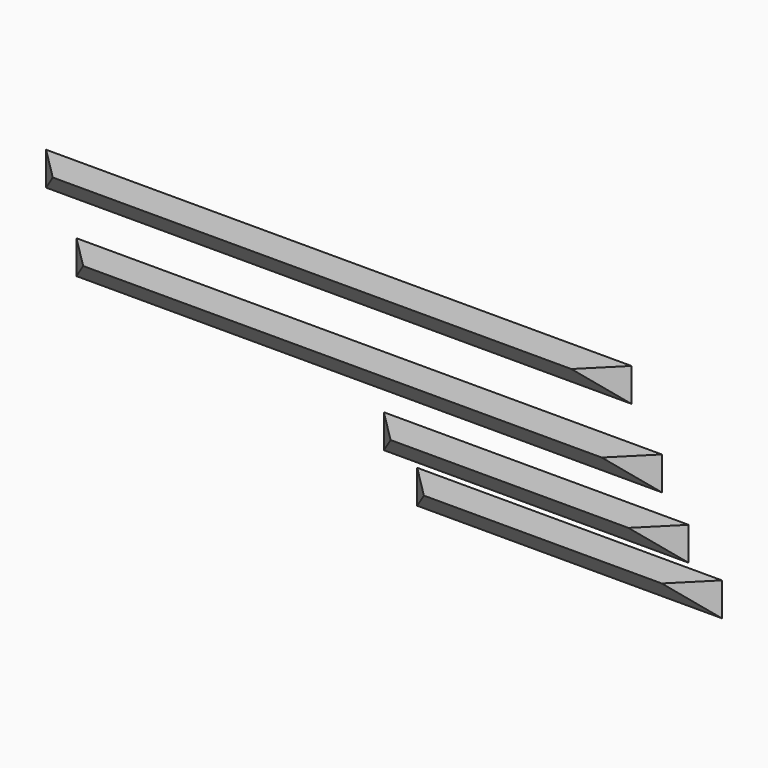
from build123d import *

# Parameters (mm, degrees)
F0_W      = 876
F0_H      = 50
F1_DEPTH  = 50
F3_DEPTH  = 876.001
F4_W      = 876
F4_H      = 50
F5_DEPTH  = 50
F7_DEPTH  = 876
F8_W      = 456
F8_H      = 50
F9_DEPTH  = 50
F11_DEPTH = 876
F12_W     = 456
F12_H     = 50
F13_DEPTH = 50
F15_DEPTH = 456
F17_DEPTH = 388.483529
F19_DEPTH = 253.326912
F21_DEPTH = 140.311034
F23_DEPTH = 50


with BuildPart() as f1:
    # F0 (on Top) → F1 (new body)
    with BuildSketch(Plane.XY):
        with Locations((166.456298, 33.898029)):
            Rectangle(F0_W, F0_H)
    extrude(amount=F1_DEPTH)

    # F2 (on face) → F3 (cut, through all)
    with BuildSketch(Plane.YZ.offset(604.456298)):
        Polygon((58.898029, 0), (8.898029, 50), (8.898029, 0), align=None)
    extrude(amount=-F3_DEPTH, mode=Mode.SUBTRACT)

    # F16 (on face) → F17 (cut, through all)
    with BuildSketch(Plane.XY.offset(50)):
        Polygon((-221.543702, 8.898029), (-271.543702, 58.898029), (-271.543702, 8.898029), align=None)
        Polygon((604.456298, 8.898029), (604.456298, 58.898029), (554.456298, 8.898029), align=None)
    extrude(amount=-F17_DEPTH, mode=Mode.SUBTRACT)


with BuildPart() as f5:
    # F4 (on face) → F5 (new body)
    with BuildSketch(Plane(origin=(0, 58.898029, 0), x_dir=(-1, 0, 0), z_dir=(0, 1, 0))):
        with Locations((-171.989239, -110.156617)):
            Rectangle(F4_W, F4_H)
    extrude(amount=F5_DEPTH)

    # F6 (on face) → F7 (cut)
    with BuildSketch(Plane.YZ.offset(609.989239)):
        Polygon((108.898029, -135.156617), (58.898029, -85.156617), (58.898029, -135.156617), align=None)
    extrude(amount=-F7_DEPTH, mode=Mode.SUBTRACT)

    # F18 (on face) → F19 (cut, through all)
    with BuildSketch(Plane.XY.offset(-85.156617)):
        Polygon((-216.010761, 58.898029), (-266.010761, 108.898029), (-266.010761, 58.898029), align=None)
        Polygon((609.989239, 58.898029), (609.989239, 108.898029), (559.989239, 58.898029), align=None)
    extrude(amount=-F19_DEPTH, mode=Mode.SUBTRACT)


with BuildPart() as f9:
    # F8 (on face) → F9 (new body)
    with BuildSketch(Plane(origin=(0, 108.898029, 0), x_dir=(-1, 0, 0), z_dir=(0, 1, 0))):
        with Locations((-381.989239, -223.172495)):
            Rectangle(F8_W, F8_H)
    extrude(amount=F9_DEPTH)

    # F10 (on face) → F11 (cut)
    with BuildSketch(Plane.YZ.offset(609.989239)):
        Polygon((158.898029, -248.172495), (108.898029, -198.172495), (108.898029, -248.172495), align=None)
    extrude(amount=-F11_DEPTH, mode=Mode.SUBTRACT)

    # F20 (on face) → F21 (cut, through all)
    with BuildSketch(Plane.XY.offset(-198.172495)):
        Polygon((203.989239, 108.898029), (153.989239, 158.898029), (153.989239, 108.898029), align=None)
        Polygon((609.989239, 108.898029), (609.989239, 158.898029), (559.989239, 108.898029), align=None)
    extrude(amount=-F21_DEPTH, mode=Mode.SUBTRACT)


with BuildPart() as f13:
    # F12 (on face) → F13 (new body)
    with BuildSketch(Plane(origin=(0, 158.898029, 0), x_dir=(-1, 0, 0), z_dir=(0, 1, 0))):
        with Locations((-391.864389, -313.482529)):
            Rectangle(F12_W, F12_H)
    extrude(amount=F13_DEPTH)

    # F14 (on face) → F15 (cut)
    with BuildSketch(Plane.YZ.offset(619.864389)):
        Polygon((208.898029, -338.482529), (158.898029, -288.482529), (158.898029, -338.482529), align=None)
    extrude(amount=-F15_DEPTH, mode=Mode.SUBTRACT)

    # F22 (on face) → F23 (cut)
    with BuildSketch(Plane.XY.offset(-288.482529)):
        Polygon((213.864389, 158.898029), (163.864389, 208.898029), (163.864389, 158.898029), align=None)
        Polygon((619.864389, 158.898029), (619.864389, 208.898029), (569.864389, 158.898029), align=None)
    extrude(amount=-F23_DEPTH, mode=Mode.SUBTRACT)


solid = Compound([f1.part, f5.part, f9.part, f13.part])
